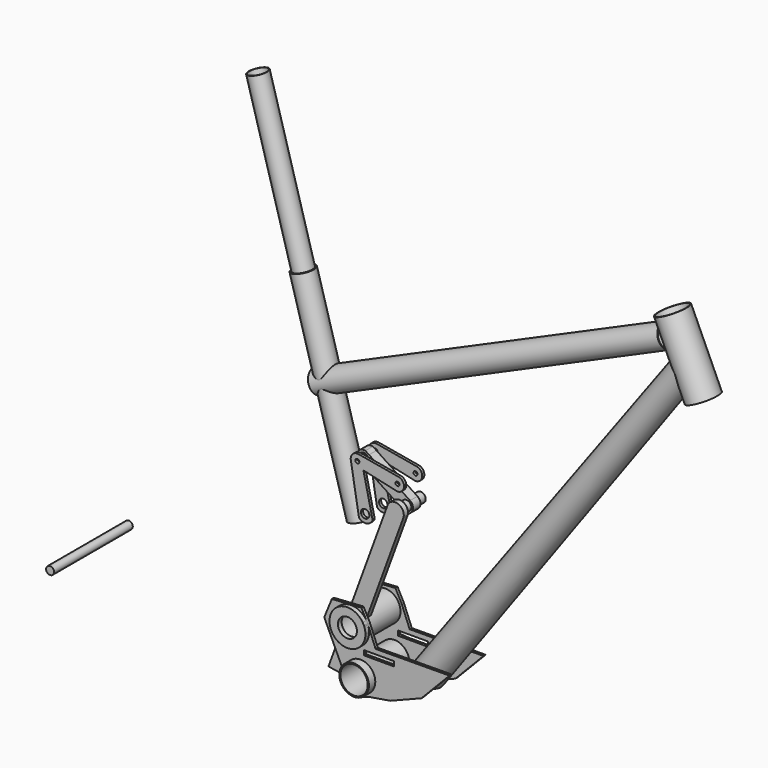
from build123d import *

# Parameters (mm, degrees)
F5_R      = 22.27
F5_R_2    = 20.5
F6_DEPTH  = 46
F7_R      = 23
F7_R_2    = 22
F8_DEPTH  = 34
F9_R      = 23
F9_W      = 45.1096589677
F9_H      = 7.0634344593
F9_R_2    = 22.27
F10_DEPTH = 4
F11_R     = 23
F11_R_2   = 14.2875
F12_DEPTH = 7
F13_R     = 6
F14_DEPTH = 74
F21_R     = 7.5
F22_DEPTH = 20
F24_R     = 6.35
F24_R_2   = 3
F25_DEPTH = 4
F30_DEPTH = 8
F31_R     = 6.35
F32_DEPTH = 7


with BuildPart() as f2:
    # F1 (on Front) → F2 (revolve)
    with BuildSketch(Plane.XZ):
        Polygon((463.024444974, 609.5697688769), (462.0191479593, 609.1232513384), (508.3033762543, 507.5617816335), (509.3042873854, 508.0179231153), align=None)
    revolve(axis=Axis((465.1421141475, 0, 549.2192651475), (-0.4146932427, 0, 0.9099612709)))


with BuildPart() as f4:
    # F3 (on Front) → F4 (revolve)
    with BuildSketch(Plane.XZ):
        Polygon((92.7806691383, -12.3316956712), (93.5079050699, -12.8592034672), (479.5611913158, 519.3638715283), (478.8653748114, 519.9346949618), align=None)
    revolve(axis=Axis((262.6120625056, 0, 255.9247842068), (0.5898781878, 0, 0.8074922437)))


with BuildPart() as f6:
    # F5 (on Front) → F6 (new body, symmetric)
    with BuildSketch(Plane.XZ):
        with Locations((0, -15)):
            Circle(F5_R)
        with Locations((0, -15)):
            Circle(F5_R_2, mode=Mode.SUBTRACT)
    extrude(amount=F6_DEPTH, both=True)


with BuildPart() as f8:
    # F7 (on Front) → F8 (new body, symmetric)
    with BuildSketch(Plane.XZ):
        with Locations((-14, 47.8)):
            Circle(F7_R)
        with Locations((-14, 47.8)):
            Circle(F7_R_2, mode=Mode.SUBTRACT)
    extrude(amount=F8_DEPTH, both=True)


with BuildPart() as f10:
    # F9 (on face) → F10 (new body)
    with BuildSketch(Plane.XZ.offset(34)):
        with BuildLine():
            Line((10.7730740469, 58.5375417236), (8.8915533084, 62.1170104117))
            ThreePointArc((8.8915533084, 62.1170104117), (-39.9525715424, 40.3525823041), (13, 47.8))
            ThreePointArc((13, 47.8), (12.5716514426, 52.5903381524), (11.3001970656, 57.2286811612))
            Line((11.3001970656, 57.2286811612), (10.7730740469, 58.5375417236))
        make_face()
        with Locations((-14, 47.8)):
            Circle(F9_R, mode=Mode.SUBTRACT)
        with BuildLine():
            Line((-54.4824488461, 45.4921983182), (-25.9953716065, -15.4905660377))
            ThreePointArc((-25.9953716065, -15.4905660377), (-0.2452939356, 10.9988428759), (26, -15))
            ThreePointArc((26, -15), (22.1488363671, -28.6172334775), (11.7362271091, -38.2004520052))
            Line((11.7362271091, -38.2004520052), (44.8652207851, -32.6730534434))
            Line((44.8652207851, -32.6730534434), (91.5725156665, -14.2207881436))
            Line((91.5725156665, -14.2207881436), (133.7795674682, 29.4656553805))
            Line((133.7795674682, 29.4656553805), (22.757696721, 28.7794028908))
            Line((22.757696721, 28.7794028908), (11.3001970656, 57.2286811612))
            ThreePointArc((11.3001970656, 57.2286811612), (12.5716514426, 52.5903381524), (13, 47.8))
            ThreePointArc((13, 47.8), (-39.9525715424, 40.3525823041), (8.8915533084, 62.1170104117))
            Line((8.8915533084, 62.1170104117), (1.3982102156, 76.3725997448))
            Line((1.3982102156, 76.3725997448), (-43.1153662503, 73.4349116683))
            Line((-43.1153662503, 73.4349116683), (-54.4824488461, 45.4921983182))
        make_face()
        with Locations((27.790956432, 18.0186382495)):
            Rectangle(F9_W, F9_H, mode=Mode.SUBTRACT)
        with BuildLine():
            ThreePointArc((26, -15), (-0.2452939356, 10.9988428759), (-25.9953716065, -15.4905660377))
            ThreePointArc((-25.9953716065, -15.4905660377), (-13.4076668594, -37.2763208225), (11.7362271091, -38.2004520052))
            ThreePointArc((11.7362271091, -38.2004520052), (22.1488363671, -28.6172334775), (26, -15))
        make_face()
        with Locations((0, -15)):
            Circle(F9_R_2, mode=Mode.SUBTRACT)
        with BuildLine():
            Line((10.7730740469, 58.5375417236), (8.8915533084, 62.1170104117))
            ThreePointArc((8.8915533084, 62.1170104117), (-39.9525715424, 40.3525823041), (13, 47.8))
            ThreePointArc((13, 47.8), (12.5716514426, 52.5903381524), (11.3001970656, 57.2286811612))
            Line((11.3001970656, 57.2286811612), (10.7730740469, 58.5375417236))
        make_face()
        with Locations((-14, 47.8)):
            Circle(F9_R, mode=Mode.SUBTRACT)
        with BuildLine():
            Line((-54.4824488461, 45.4921983182), (-25.9953716065, -15.4905660377))
            ThreePointArc((-25.9953716065, -15.4905660377), (-0.2452939356, 10.9988428759), (26, -15))
            ThreePointArc((26, -15), (22.1488363671, -28.6172334775), (11.7362271091, -38.2004520052))
            Line((11.7362271091, -38.2004520052), (44.8652207851, -32.6730534434))
            Line((44.8652207851, -32.6730534434), (91.5725156665, -14.2207881436))
            Line((91.5725156665, -14.2207881436), (133.7795674682, 29.4656553805))
            Line((133.7795674682, 29.4656553805), (22.757696721, 28.7794028908))
            Line((22.757696721, 28.7794028908), (11.3001970656, 57.2286811612))
            ThreePointArc((11.3001970656, 57.2286811612), (12.5716514426, 52.5903381524), (13, 47.8))
            ThreePointArc((13, 47.8), (-39.9525715424, 40.3525823041), (8.8915533084, 62.1170104117))
            Line((8.8915533084, 62.1170104117), (1.3982102156, 76.3725997448))
            Line((1.3982102156, 76.3725997448), (-43.1153662503, 73.4349116683))
            Line((-43.1153662503, 73.4349116683), (-54.4824488461, 45.4921983182))
        make_face()
        with Locations((27.790956432, 18.0186382495)):
            Rectangle(F9_W, F9_H, mode=Mode.SUBTRACT)
    extrude(amount=-F10_DEPTH)


with BuildPart() as f12:
    # F11 (on face) → F12 (new body)
    with BuildSketch(Plane.XZ.offset(34)):
        with BuildLine():
            ThreePointArc((8.8915533084, 62.1170104117), (-39.9525715424, 40.3525823041), (13, 47.8))
            ThreePointArc((13, 47.8), (12.5716514426, 52.5903381524), (11.3001970656, 57.2286811612))
            Line((11.3001970656, 57.2286811612), (10.7730740469, 58.5375417236))
            Line((10.7730740469, 58.5375417236), (8.8915533084, 62.1170104117))
        make_face()
        with Locations((-14, 47.8)):
            Circle(F11_R, mode=Mode.SUBTRACT)
        with Locations((-14, 47.8)):
            Circle(F11_R)
        with Locations((-14, 47.8)):
            Circle(F11_R_2, mode=Mode.SUBTRACT)
    extrude(amount=F12_DEPTH)


with BuildPart() as f14:
    # F13 (on Front) → F14 (new body, symmetric)
    with BuildSketch(Plane.XZ):
        with Locations((-434.7413023857, 0)):
            Circle(F13_R)
    extrude(amount=F14_DEPTH, both=True)


with BuildPart() as f16:
    # F15 (on Front) → F16 (revolve)
    with BuildSketch(Plane.XZ):
        Polygon((428.0766033653, 579.5205516757), (427.7137526275, 580.3441652636), (-97.5386940343, 348.9392435747), (-97.1758432965, 348.1156299868), align=None)
    revolve(axis=Axis((172.1429603092, 0, 448.6269957666), (0.9151262087, 0, 0.4031674864)))


with BuildPart() as f18:
    # F17 (on Front) → F18 (revolve)
    with BuildSketch(Plane.XZ):
        Polygon((-97.396492523, 478.0199117474), (-98.2620292068, 477.7732414226), (-12.1869070889, 175.7459270089), (-11.3213704051, 175.9925973337), align=None)
    revolve(axis=Axis((-104.3154714094, 0, 442.0960544856), (-0.2740781387, 0, 0.9617074264)))


with BuildPart() as f20:
    # F19 (on Front) → F20 (revolve)
    with BuildSketch(Plane.XZ):
        Polygon((-168.6601948117, 716.3643316985), (-100.4834163489, 477.1401656695), (-99.6178796651, 477.3868359943), (-167.794658128, 716.6110020233), align=None)
    revolve(axis=Axis((-104.3154714094, 0, 442.0960544856), (-0.2740781387, 0, 0.9617074264)))


with BuildPart() as f22:
    # F21 (on Front) → F22 (new body, symmetric)
    with BuildSketch(Plane.XZ):
        with Locations((47.4, 215.6)):
            Circle(F21_R)
    extrude(amount=F22_DEPTH, both=True)


with BuildPart() as f25:
    # F24 (on offset) → F25 (new body)
    with BuildSketch(Plane.XZ.offset(15)):
        with BuildLine():
            Line((45.0792866924, 257.7899803277), (-15.5202416132, 268.3301646587))
            ThreePointArc((-15.5202416132, 268.3301646587), (-23.9489070515, 265.2886389483), (-26.5571872744, 256.7159990983))
            Line((-26.5571872744, 256.7159990983), (-14.2158837989, 184.3445748091))
            ThreePointArc((-14.2158837989, 184.3445748091), (-3.0278027841, 180.3528228637), (6.3226862973, 187.6791858309))
            Line((6.3226862973, 187.6791858309), (-7.5712497346, 249.1488009691))
            Line((-7.5712497346, 249.1488009691), (39.7688210528, 238.6630054739))
            ThreePointArc((39.7688210528, 238.6630054739), (53.2355145715, 245.2247693667), (45.0792866924, 257.7899803277))
        make_face()
        with Locations((-5, 192.5)):
            Circle(F24_R, mode=Mode.SUBTRACT)
        with Locations((-16.7, 258.4)):
            Circle(F24_R_2, mode=Mode.SUBTRACT)
        with Locations((43.6, 247.9)):
            Circle(F24_R_2, mode=Mode.SUBTRACT)
    extrude(amount=F25_DEPTH)


with BuildPart() as f26_1:
    # F26: instance of F10
    add(f10.part.mirror(Plane.XZ))


with BuildPart() as f27_1:
    # F27: instance of F25
    add(f25.part.mirror(Plane.XZ))


with BuildPart() as f30:
    # F29 (on offset) → F30 (new body)
    with BuildSketch(Plane.XZ.offset(20)):
        with BuildLine():
            ThreePointArc((-19.2240269809, 70.4041930204), (-6.0140175679, 69.5821965053), (4.5968081765, 61.670786771))
            Line((4.5968081765, 61.670786771), (60.0266836553, 212.8587527107))
            ThreePointArc((60.0266836553, 212.8587527107), (52.418818086, 227.5062606159), (36.6211233975, 222.7248435788))
            Line((36.6211233975, 222.7248435788), (-19.2240269809, 70.4041930204))
        make_face()
    extrude(amount=F30_DEPTH)


with BuildPart() as f30b:
    # F29 (on offset) → F30, piece 2 (new body)
    with BuildSketch(Plane.XZ.offset(20)):
        with BuildLine():
            Line((-52.899775842, -21.4482228084), (-27.3692887319, -25.5184614253))
            Line((-27.3692887319, -25.5184614253), (-8.7759730191, 25.1958069796))
            ThreePointArc((-8.7759730191, 25.1958069796), (-21.9859824321, 26.0178034947), (-32.5968081765, 33.929213229))
            Line((-32.5968081765, 33.929213229), (-52.899775842, -21.4482228084))
        make_face()
    extrude(amount=F30_DEPTH)


with BuildPart() as f32:
    # F31 (on Front) → F32 (new body, symmetric)
    with BuildSketch(Plane.XZ):
        with BuildLine():
            ThreePointArc((-6.7, 258.4), (-9.9695910302, 251.0039473299), (-17.6403190197, 248.4443081536))
            Line((-17.6403190197, 248.4443081536), (38.4150291485, 211.2102051531))
            ThreePointArc((38.4150291485, 211.2102051531), (40.7918678839, 223.1055039761), (52.8924075911, 223.9566416013))
            Line((52.8924075911, 223.9566416013), (-8.7577593686, 264.4762499745))
            ThreePointArc((-8.7577593686, 264.4762499745), (-7.2284001796, 261.607615445), (-6.7, 258.4))
        make_face()
        with BuildLine():
            Line((-8.7577593686, 264.4762499745), (-14.272677692, 268.1009332754))
            ThreePointArc((-14.272677692, 268.1009332754), (-26.5563950047, 260.0886318457), (-17.6403190197, 248.4443081536))
            ThreePointArc((-17.6403190197, 248.4443081536), (-9.9695910302, 251.0039473299), (-6.7, 258.4))
            ThreePointArc((-6.7, 258.4), (-7.2284001796, 261.607615445), (-8.7577593686, 264.4762499745))
        make_face()
        with Locations((-16.7, 258.4)):
            Circle(F31_R, mode=Mode.SUBTRACT)
        with BuildLine():
            ThreePointArc((52.8924075911, 223.9566416013), (40.7918678839, 223.1055039761), (38.4150291485, 211.2102051531))
            Line((38.4150291485, 211.2102051531), (46.8372458635, 205.6158471675))
            ThreePointArc((46.8372458635, 205.6158471675), (54.2692233417, 208.332691648), (57.4, 215.6))
            ThreePointArc((57.4, 215.6), (56.2012520675, 220.3474163547), (52.8924075911, 223.9566416013))
        make_face()
        with Locations((47.4, 215.6)):
            Circle(F31_R, mode=Mode.SUBTRACT)
    extrude(amount=F32_DEPTH, both=True)


solid = Compound([f2.part, f4.part, f6.part, f8.part, f10.part, f12.part, f14.part, f16.part, f18.part, f20.part, f22.part, f25.part, f26_1.part, f27_1.part, f30.part, f30b.part, f32.part])
